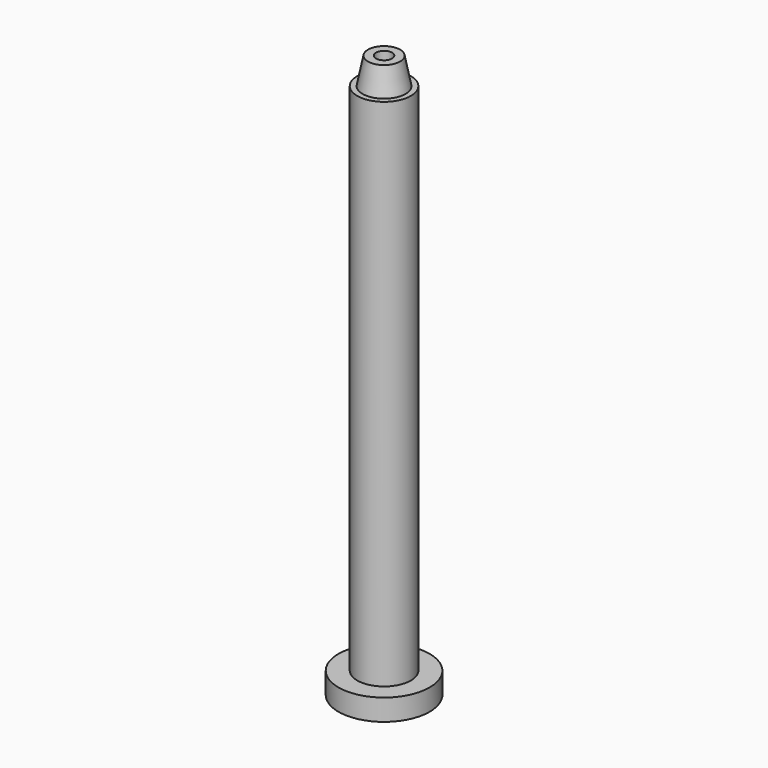
from build123d import *

# Parameters (mm, degrees)
F0_R     = 8.5
F1_DEPTH = 4
F2_R     = 5
F3_DEPTH = 100
F6_R     = 1.5
F7_DEPTH = 123


with BuildPart() as f1:
    # F0 (on Top) → F1 (new body)
    with BuildSketch(Plane.XY):
        Circle(F0_R)
    extrude(amount=F1_DEPTH)

    # F2 (on Top) → F3 (join)
    with BuildSketch(Plane.XY):
        Circle(F2_R)
    extrude(amount=F3_DEPTH)

    # F4 (on Right) → F5 (revolve)
    with BuildSketch(Plane.YZ):
        Polygon((3, 105), (0, 105), (0, 100), (4, 100), align=None)
    revolve(axis=Axis((0, 0, 102.5), (0, 0, -1)))

    # F6 (on face) → F7 (cut)
    with BuildSketch(Plane.XY.offset(105)):
        Circle(F6_R)
    extrude(amount=-F7_DEPTH, mode=Mode.SUBTRACT)


solid = f1.part
